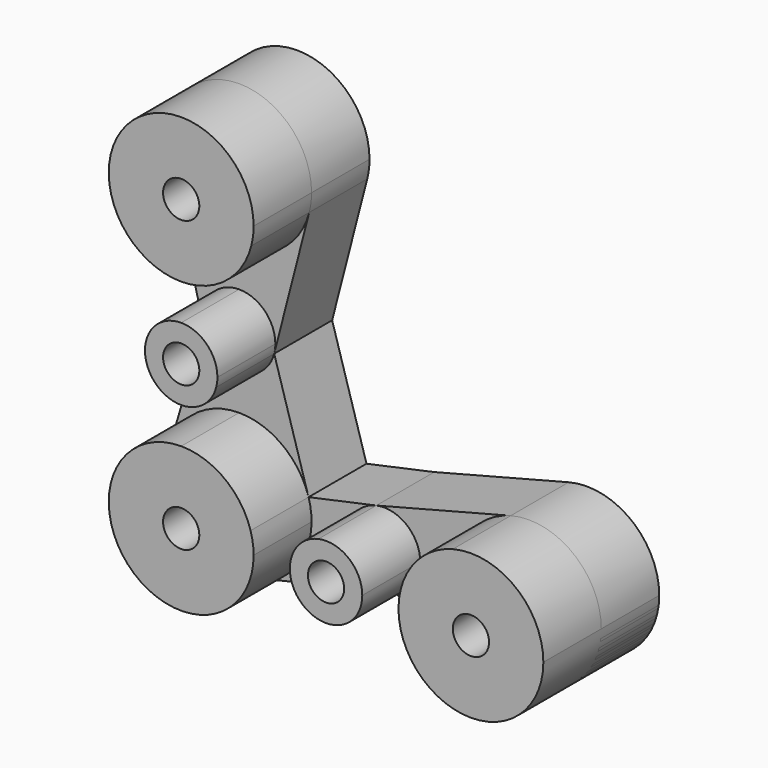
from build123d import *

# Parameters (mm, degrees)
F1_DEPTH = 50.8
F2_DEPTH = 25.4
F3_D     = 12.7
F3_2_D   = 12.7
F3_3_D   = 12.7
F3_4_D   = 12.7
F3_5_D   = 12.7
F3_6_D   = 12.7


with BuildPart() as f1:
    # F0 (on Front) → F1 (new body)
    with BuildSketch(Plane.XZ):
        with BuildLine():
            ThreePointArc((-76.688706116, -0.2491279063), (-61.1344462494, 5.0704089517), (-52.0952618676, 18.8008720937))
            ThreePointArc((-52.0952618676, 18.8008720937), (-51.4911518308, 21.9503630647), (-51.288706116, 25.1508720937))
            ThreePointArc((-51.288706116, 25.1508720937), (-79.8892151451, 50.3484263789), (-101.2821503645, 18.8008720937))
            ThreePointArc((-101.2821503645, 18.8008720937), (-92.2429659827, 5.0704089517), (-76.688706116, -0.2491279063))
        make_face()
    extrude(amount=F1_DEPTH)

    # F3 (through all)
    with Locations(Plane(origin=(0, 0, 0), x_dir=(1, 0, 0), z_dir=(0, 1, 0))):
        with Locations((-76.688706116, -25.1508720937), (-76.688706116, 25.6491279063), (-76.688706116, 76.4491279063), (-25.888706116, 76.4491279063), (24.911293884, 76.4491279063)):
            Hole(F3_D / 2)


with BuildPart() as f1b:
    # F0 (on Front) → F1, piece 2 (new body)
    with BuildSketch(Plane.XZ):
        with BuildLine():
            ThreePointArc((50.311293884, -76.4491279063), (40.463527775, -56.3670956137), (18.5563316005, -51.856965448))
            ThreePointArc((18.5563316005, -51.856965448), (4.8292615914, -60.8968940153), (-0.488706116, -76.4491279063))
            ThreePointArc((-0.488706116, -76.4491279063), (4.5662661321, -91.6557003595), (17.719155756, -100.8096112584))
            ThreePointArc((17.719155756, -100.8096112584), (40.1178663372, -96.7941556582), (50.311293884, -76.4491279063))
        make_face()
    extrude(amount=F1_DEPTH)

    # F3#2 (through all)
    with Locations(Plane(origin=(0, 0, 0), x_dir=(1, 0, 0), z_dir=(0, 1, 0))):
        with Locations((-76.688706116, -25.1508720937), (-76.688706116, 25.6491279063), (-76.688706116, 76.4491279063), (-25.888706116, 76.4491279063), (24.911293884, 76.4491279063)):
            Hole(F3_2_D / 2)


with BuildPart() as f1c:
    # F0 (on Front) → F1, piece 3 (new body)
    with BuildSketch(Plane.XZ):
        with BuildLine():
            ThreePointArc((-88.9854282402, -28.8241279063), (-84.4658360494, -35.6893594773), (-76.688706116, -38.3491279063))
            Line((-76.688706116, -38.3491279063), (-76.688706116, -25.6491279063))
            Line((-76.688706116, -25.6491279063), (-76.688706116, -12.9491279063))
            ThreePointArc((-76.688706116, -12.9491279063), (-86.7289376871, -17.8719979729), (-88.9854282402, -28.8241279063))
        make_face()
        with BuildLine():
            Line((-76.688706116, -25.6491279063), (-76.688706116, -38.3491279063))
            ThreePointArc((-76.688706116, -38.3491279063), (-68.9115761827, -35.6893594773), (-64.3919839918, -28.8241279063))
            ThreePointArc((-64.3919839918, -28.8241279063), (-64.0899289734, -27.2493824208), (-63.988706116, -25.6491279063))
            ThreePointArc((-63.988706116, -25.6491279063), (-67.708449995, -16.6688717852), (-76.688706116, -12.9491279063))
            Line((-76.688706116, -12.9491279063), (-76.688706116, -25.6491279063))
        make_face()
    extrude(amount=F1_DEPTH)

    # F3#3 (through all)
    with Locations(Plane(origin=(0, 0, 0), x_dir=(1, 0, 0), z_dir=(0, 1, 0))):
        with Locations((-76.688706116, -25.1508720937), (-76.688706116, 25.6491279063), (-76.688706116, 76.4491279063), (-25.888706116, 76.4491279063), (24.911293884, 76.4491279063)):
            Hole(F3_3_D / 2)


with BuildPart() as f1d:
    # F0 (on Front) → F1, piece 4 (new body)
    with BuildSketch(Plane.XZ):
        with BuildLine():
            Line((-51.288706116, -76.4491279063), (-76.688706116, -76.4491279063))
            Line((-76.688706116, -76.4491279063), (-76.688706116, -51.0491279063))
            ThreePointArc((-76.688706116, -51.0491279063), (-91.8660000806, -56.0822492079), (-101.0283994346, -69.1869430312))
            ThreePointArc((-101.0283994346, -69.1869430312), (-92.6145281281, -96.2361992722), (-64.3919839918, -98.6741279063))
            ThreePointArc((-64.3919839918, -98.6741279063), (-54.8083868547, -89.3491910465), (-51.288706116, -76.4491279063))
        make_face()
        with BuildLine():
            Line((-76.688706116, -51.0491279063), (-76.688706116, -76.4491279063))
            Line((-76.688706116, -76.4491279063), (-51.288706116, -76.4491279063))
            ThreePointArc((-51.288706116, -76.4491279063), (-51.5551805944, -72.7795373495), (-52.3490127975, -69.1869430312))
            ThreePointArc((-52.3490127975, -69.1869430312), (-61.5114121515, -56.0822492079), (-76.688706116, -51.0491279063))
        make_face()
    extrude(amount=F1_DEPTH)

    # F3#4 (through all)
    with Locations(Plane(origin=(0, 0, 0), x_dir=(1, 0, 0), z_dir=(0, 1, 0))):
        with Locations((-76.688706116, -25.1508720937), (-76.688706116, 25.6491279063), (-76.688706116, 76.4491279063), (-25.888706116, 76.4491279063), (24.911293884, 76.4491279063)):
            Hole(F3_4_D / 2)


with BuildPart() as f1e:
    # F0 (on Front) → F1, piece 5 (new body)
    with BuildSketch(Plane.XZ):
        with BuildLine():
            ThreePointArc((-28.5776879381, -64.037062133), (-35.7740505496, -68.4760503681), (-38.588706116, -76.4491279063))
            Line((-38.588706116, -76.4491279063), (-25.888706116, -76.4491279063))
            Line((-25.888706116, -76.4491279063), (-13.188706116, -76.4491279063))
            ThreePointArc((-13.188706116, -76.4491279063), (-17.9156285779, -66.5637834727), (-28.5776879381, -64.037062133))
        make_face()
        with BuildLine():
            Line((-25.888706116, -76.4491279063), (-38.588706116, -76.4491279063))
            ThreePointArc((-38.588706116, -76.4491279063), (-33.7602635805, -86.4155005204), (-22.9464095674, -88.8035963699))
            ThreePointArc((-22.9464095674, -88.8035963699), (-15.9223335019, -84.3206853707), (-13.188706116, -76.4491279063))
            Line((-13.188706116, -76.4491279063), (-25.888706116, -76.4491279063))
        make_face()
    extrude(amount=F1_DEPTH)

    # F3#5 (through all)
    with Locations(Plane(origin=(0, 0, 0), x_dir=(1, 0, 0), z_dir=(0, 1, 0))):
        with Locations((-76.688706116, -25.1508720937), (-76.688706116, 25.6491279063), (-76.688706116, 76.4491279063), (-25.888706116, 76.4491279063), (24.911293884, 76.4491279063)):
            Hole(F3_5_D / 2)


with BuildPart() as f2:
    # F0 (on Front) → F2 (new body)
    with BuildSketch(Plane.XZ):
        with BuildLine():
            Line((-76.688706116, -51.0491279063), (-76.688706116, -76.4491279063))
            Line((-76.688706116, -76.4491279063), (-51.288706116, -76.4491279063))
            ThreePointArc((-51.288706116, -76.4491279063), (-51.5551805944, -72.7795373495), (-52.3490127975, -69.1869430312))
            ThreePointArc((-52.3490127975, -69.1869430312), (-61.5114121515, -56.0822492079), (-76.688706116, -51.0491279063))
        make_face()
        with BuildLine():
            Line((-51.288706116, -76.4491279063), (-76.688706116, -76.4491279063))
            Line((-76.688706116, -76.4491279063), (-76.688706116, -51.0491279063))
            ThreePointArc((-76.688706116, -51.0491279063), (-91.8660000806, -56.0822492079), (-101.0283994346, -69.1869430312))
            ThreePointArc((-101.0283994346, -69.1869430312), (-92.6145281281, -96.2361992722), (-64.3919839918, -98.6741279063))
            ThreePointArc((-64.3919839918, -98.6741279063), (-54.8083868547, -89.3491910465), (-51.288706116, -76.4491279063))
        make_face()
        with BuildLine():
            ThreePointArc((-52.3490127975, -69.1869430312), (-51.5551805944, -72.7795373495), (-51.288706116, -76.4491279063))
            Line((-51.288706116, -76.4491279063), (-38.588706116, -76.4491279063))
            ThreePointArc((-38.588706116, -76.4491279063), (-35.7740505496, -68.4760503681), (-28.5776879381, -64.037062133))
            Line((-28.5776879381, -64.037062133), (-52.3490127975, -69.1869430312))
        make_face()
        with BuildLine():
            Line((-38.588706116, -76.4491279063), (-51.288706116, -76.4491279063))
            ThreePointArc((-51.288706116, -76.4491279063), (-54.8083868547, -89.3491910465), (-64.3919839918, -98.6741279063))
            Line((-64.3919839918, -98.6741279063), (-22.9464095674, -88.8035963699))
            ThreePointArc((-22.9464095674, -88.8035963699), (-33.7602635805, -86.4155005204), (-38.588706116, -76.4491279063))
        make_face()
        with BuildLine():
            ThreePointArc((-101.0283994346, -69.1869430312), (-91.8660000806, -56.0822492079), (-76.688706116, -51.0491279063))
            Line((-76.688706116, -51.0491279063), (-76.688706116, -38.3491279063))
            ThreePointArc((-76.688706116, -38.3491279063), (-84.4658360494, -35.6893594773), (-88.9854282402, -28.8241279063))
            Line((-88.9854282402, -28.8241279063), (-101.0283994346, -69.1869430312))
        make_face()
        with BuildLine():
            Line((-76.688706116, -38.3491279063), (-76.688706116, -51.0491279063))
            ThreePointArc((-76.688706116, -51.0491279063), (-61.5114121515, -56.0822492079), (-52.3490127975, -69.1869430312))
            Line((-52.3490127975, -69.1869430312), (-64.3919839918, -28.8241279063))
            ThreePointArc((-64.3919839918, -28.8241279063), (-68.9115761827, -35.6893594773), (-76.688706116, -38.3491279063))
        make_face()
        with BuildLine():
            ThreePointArc((-28.5776879381, -64.037062133), (-35.7740505496, -68.4760503681), (-38.588706116, -76.4491279063))
            Line((-38.588706116, -76.4491279063), (-25.888706116, -76.4491279063))
            Line((-25.888706116, -76.4491279063), (-13.188706116, -76.4491279063))
            ThreePointArc((-13.188706116, -76.4491279063), (-17.9156285779, -66.5637834727), (-28.5776879381, -64.037062133))
        make_face()
        with BuildLine():
            Line((-25.888706116, -76.4491279063), (-38.588706116, -76.4491279063))
            ThreePointArc((-38.588706116, -76.4491279063), (-33.7602635805, -86.4155005204), (-22.9464095674, -88.8035963699))
            ThreePointArc((-22.9464095674, -88.8035963699), (-15.9223335019, -84.3206853707), (-13.188706116, -76.4491279063))
            Line((-13.188706116, -76.4491279063), (-25.888706116, -76.4491279063))
        make_face()
        with BuildLine():
            ThreePointArc((-88.9854282402, -28.8241279063), (-84.4658360494, -35.6893594773), (-76.688706116, -38.3491279063))
            Line((-76.688706116, -38.3491279063), (-76.688706116, -25.6491279063))
            Line((-76.688706116, -25.6491279063), (-76.688706116, -12.9491279063))
            ThreePointArc((-76.688706116, -12.9491279063), (-86.7289376871, -17.8719979729), (-88.9854282402, -28.8241279063))
        make_face()
        with BuildLine():
            Line((-76.688706116, -25.6491279063), (-76.688706116, -38.3491279063))
            ThreePointArc((-76.688706116, -38.3491279063), (-68.9115761827, -35.6893594773), (-64.3919839918, -28.8241279063))
            ThreePointArc((-64.3919839918, -28.8241279063), (-64.0899289734, -27.2493824208), (-63.988706116, -25.6491279063))
            ThreePointArc((-63.988706116, -25.6491279063), (-67.708449995, -16.6688717852), (-76.688706116, -12.9491279063))
            Line((-76.688706116, -12.9491279063), (-76.688706116, -25.6491279063))
        make_face()
        with BuildLine():
            Line((18.5563316005, -51.856965448), (-28.5776879381, -64.037062133))
            ThreePointArc((-28.5776879381, -64.037062133), (-17.9156285779, -66.5637834727), (-13.188706116, -76.4491279063))
            Line((-13.188706116, -76.4491279063), (-0.488706116, -76.4491279063))
            ThreePointArc((-0.488706116, -76.4491279063), (4.8292615914, -60.8968940153), (18.5563316005, -51.856965448))
        make_face()
        with BuildLine():
            ThreePointArc((-13.188706116, -76.4491279063), (-15.9223335019, -84.3206853707), (-22.9464095674, -88.8035963699))
            Line((-22.9464095674, -88.8035963699), (17.719155756, -100.8096112584))
            ThreePointArc((17.719155756, -100.8096112584), (4.5662661321, -91.6557003595), (-0.488706116, -76.4491279063))
            Line((-0.488706116, -76.4491279063), (-13.188706116, -76.4491279063))
        make_face()
        with BuildLine():
            ThreePointArc((-63.988706116, -25.6491279063), (-64.0899289734, -27.2493824208), (-64.3919839918, -28.8241279063))
            Line((-64.3919839918, -28.8241279063), (-52.0952618676, 18.8008720937))
            ThreePointArc((-52.0952618676, 18.8008720937), (-61.1344462494, 5.0704089517), (-76.688706116, -0.2491279063))
            Line((-76.688706116, -0.2491279063), (-76.688706116, -12.9491279063))
            ThreePointArc((-76.688706116, -12.9491279063), (-67.708449995, -16.6688717852), (-63.988706116, -25.6491279063))
        make_face()
        with BuildLine():
            Line((-101.2821503645, 18.8008720937), (-88.9854282402, -28.8241279063))
            ThreePointArc((-88.9854282402, -28.8241279063), (-86.7289376871, -17.8719979729), (-76.688706116, -12.9491279063))
            Line((-76.688706116, -12.9491279063), (-76.688706116, -0.2491279063))
            ThreePointArc((-76.688706116, -0.2491279063), (-92.2429659827, 5.0704089517), (-101.2821503645, 18.8008720937))
        make_face()
        with BuildLine():
            ThreePointArc((50.311293884, -76.4491279063), (40.463527775, -56.3670956137), (18.5563316005, -51.856965448))
            ThreePointArc((18.5563316005, -51.856965448), (4.8292615914, -60.8968940153), (-0.488706116, -76.4491279063))
            ThreePointArc((-0.488706116, -76.4491279063), (4.5662661321, -91.6557003595), (17.719155756, -100.8096112584))
            ThreePointArc((17.719155756, -100.8096112584), (40.1178663372, -96.7941556582), (50.311293884, -76.4491279063))
        make_face()
        with BuildLine():
            ThreePointArc((-76.688706116, -0.2491279063), (-61.1344462494, 5.0704089517), (-52.0952618676, 18.8008720937))
            ThreePointArc((-52.0952618676, 18.8008720937), (-51.4911518308, 21.9503630647), (-51.288706116, 25.1508720937))
            ThreePointArc((-51.288706116, 25.1508720937), (-79.8892151451, 50.3484263789), (-101.2821503645, 18.8008720937))
            ThreePointArc((-101.2821503645, 18.8008720937), (-92.2429659827, 5.0704089517), (-76.688706116, -0.2491279063))
        make_face()
    extrude(amount=F2_DEPTH)

    # F3#6 (through all)
    with Locations(Plane(origin=(0, 0, 0), x_dir=(1, 0, 0), z_dir=(0, 1, 0))):
        with Locations((-76.688706116, -25.1508720937), (-76.688706116, 25.6491279063), (-76.688706116, 76.4491279063), (-25.888706116, 76.4491279063), (24.911293884, 76.4491279063)):
            Hole(F3_6_D / 2)


solid = Compound([f1.part, f1b.part, f1c.part, f1d.part, f1e.part, f2.part])
